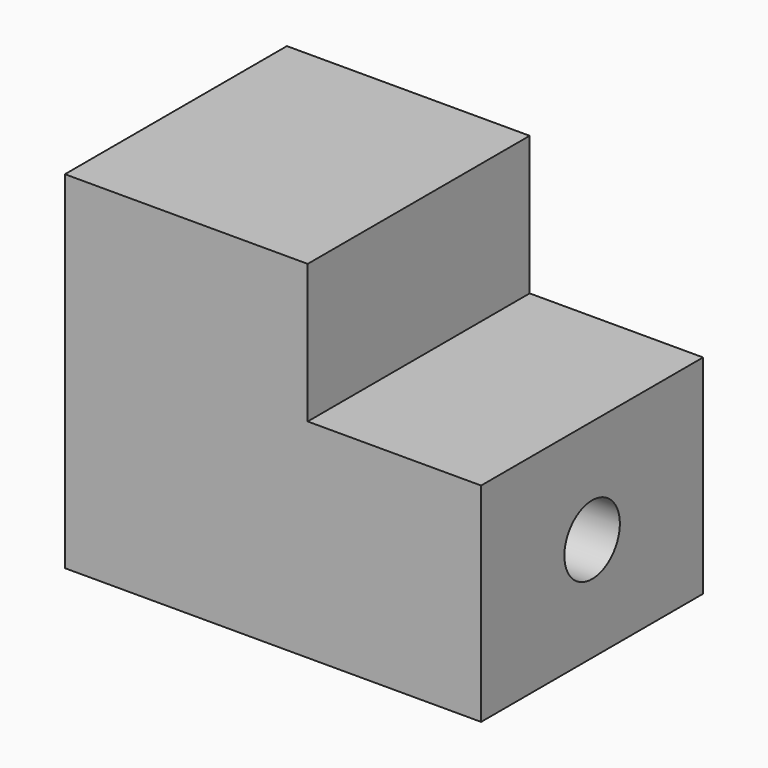
from build123d import *

# Parameters (mm, degrees)
F0_W     = 152.4
F0_H     = 101.6
F1_DEPTH = 76.2
F2_W     = 88.9
F2_H     = 101.6
F3_DEPTH = 50.8
F5_D     = 25.4


with BuildPart() as f1:
    # F0 (on Top) → F1 (new body)
    with BuildSketch(Plane.XY):
        with Locations((-0.430941, 13.617874)):
            Rectangle(F0_W, F0_H)
    extrude(amount=F1_DEPTH)

    # F2 (on face) → F3 (join)
    with BuildSketch(Plane.XY.offset(76.2)):
        with Locations((-32.180941, 13.617874)):
            Rectangle(F2_W, F2_H)
    extrude(amount=F3_DEPTH)

    # F5 (through all)
    with Locations(Plane.YZ.offset(75.769059)):
        with Locations((13.617874, 38.1)):
            Hole(F5_D / 2)


solid = f1.part
